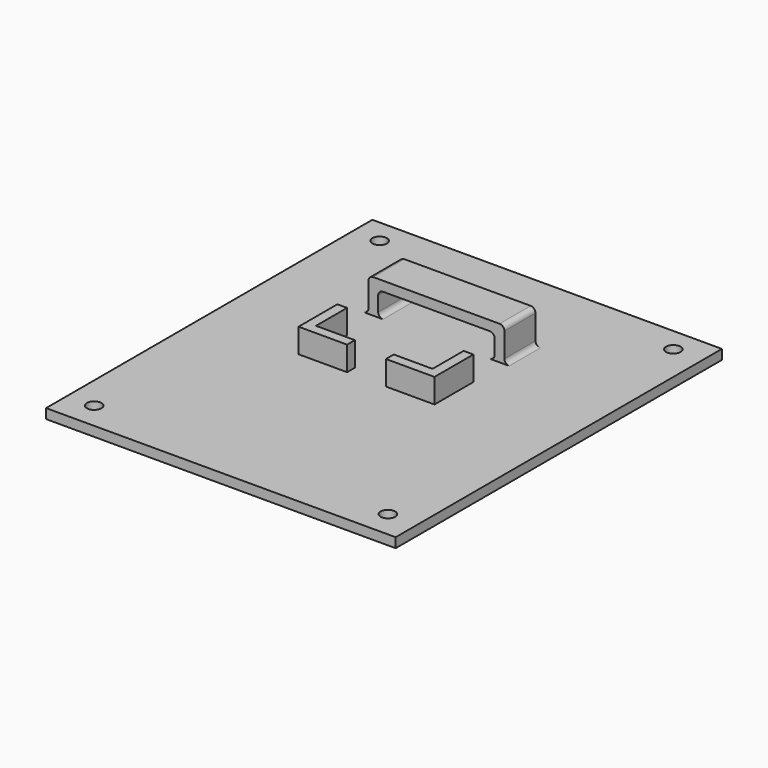
from build123d import *

# Parameters (mm, degrees)
F0_W     = 72
F0_H     = 84
F0_R     = 1.5
F1_DEPTH = 2
F2_W     = 2
F2_H     = 8
F2_W_2   = 24
F3_DEPTH = 7
F4_W     = 24
F4_H     = 5
F5_DEPTH = 8
F6_R     = 1
F7_DEPTH = 5


with BuildPart() as f1:
    # F0 (on Top) → F1 (new body)
    with BuildSketch(Plane.XY):
        Rectangle(F0_W, F0_H)
        with Locations((-30.5, -36.5)):
            Circle(F0_R, mode=Mode.SUBTRACT)
        with Locations((30, -36.5)):
            Circle(F0_R, mode=Mode.SUBTRACT)
        with Locations((-30.5, 37)):
            Circle(F0_R, mode=Mode.SUBTRACT)
        with Locations((30, 37)):
            Circle(F0_R, mode=Mode.SUBTRACT)
    extrude(amount=F1_DEPTH)

    # F2 (on face) → F3 (join)
    with BuildSketch(Plane.XY.offset(2)):
        with Locations((-15, 20)):
            Rectangle(F2_W, F2_H)
        with Locations((-2, 20)):
            Rectangle(F2_W_2, F2_H)
        with Locations((11, 20)):
            Rectangle(F2_W, F2_H)
    extrude(amount=F3_DEPTH)

    # F4 (on face) → F5 (cut, through all)
    with BuildSketch(Plane.XZ.offset(-16)):
        with Locations((-2, 4.5)):
            Rectangle(F4_W, F4_H)
    extrude(amount=-F5_DEPTH, mode=Mode.SUBTRACT)

    # F6
    f6_edges = [f1.edges().sort_by_distance(p)[0] for p in [
        (-14, 20, 7),
        (10, 20, 7),
        (12, 20, 9),
        (-16, 20, 9),
        (-16, 20, 2),
        (-14, 20, 2),
        (10, 20, 2),
        (12, 20, 2),
    ]]
    fillet(f6_edges, radius=F6_R)

    # F2 (on face) → F7 (join)
    with BuildSketch(Plane.XY.offset(2)):
        Polygon((12, 8), (10, 8), (10, 0), (2, 0), (2, -2), (12, -2), align=None)
        Polygon((-14, 0), (-14, 8), (-16, 8), (-16, -2), (-6, -2), (-6, 0), align=None)
    extrude(amount=F7_DEPTH)


solid = f1.part
